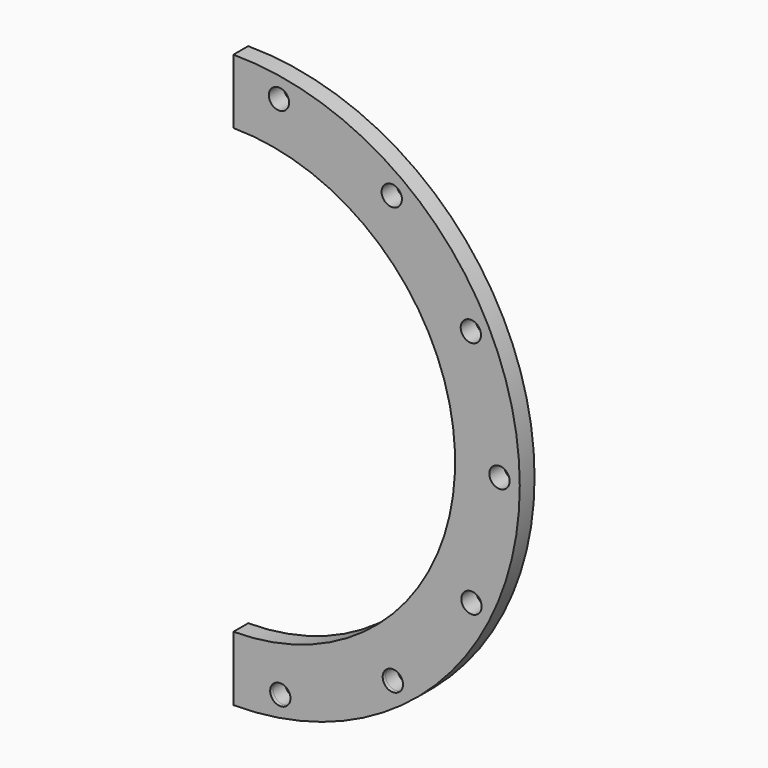
from build123d import *

# Parameters (mm, degrees)
F0_R      = 17.4625
F1_DEPTH  = 25.4
F1_FACE_R = 17.4625
F2_DEPTH  = 6.35


with BuildPart() as f1:
    # F0 (on Front) → F1 (new body)
    with BuildSketch(Plane.XZ):
        with BuildLine():
            ThreePointArc((0, -492.125), (492.125, 0), (0, 492.125))
            Line((0, 492.125), (0, 381))
            ThreePointArc((0, 381), (381, 0), (0, -381))
            Line((0, -381), (0, -492.125))
        make_face()
        with Locations((80.526325, -450.052609)):
            Circle(F0_R, mode=Mode.SUBTRACT)
        with Locations((273.944195, -366.041552)):
            Circle(F0_R, mode=Mode.SUBTRACT)
        with Locations((409.084623, -204.160749)):
            Circle(F0_R, mode=Mode.SUBTRACT)
        with Locations((78.257064, 450.452741)):
            Circle(F0_R, mode=Mode.SUBTRACT)
        with Locations((457.198548, 1.152134)):
            Circle(F0_R, mode=Mode.SUBTRACT)
        with Locations((408.050469, 206.219918)):
            Circle(F0_R, mode=Mode.SUBTRACT)
        with Locations((272.095888, 367.417566)):
            Circle(F0_R, mode=Mode.SUBTRACT)
    extrude(amount=F1_DEPTH)

    # F1_face (on face) → F2 (join)
    with BuildSketch(Plane(origin=(279.272533, -25.4, -0.032793), x_dir=(1, 0, 0), z_dir=(0, -1, 0))):
        with BuildLine():
            Line((-279.272533, -380.967207), (-279.272533, -492.092207))
            ThreePointArc((-279.272533, -492.092207), (212.852467, 0.032793), (-279.272533, 492.157793))
            Line((-279.272533, 492.157793), (-279.272533, 381.032793))
            ThreePointArc((-279.272533, 381.032793), (101.727467, 0.032793), (-279.272533, -380.967207))
        make_face()
        with Locations((-198.746207, -450.019816)):
            Circle(F1_FACE_R, mode=Mode.SUBTRACT)
        with Locations((-5.328338, -366.00876)):
            Circle(F1_FACE_R, mode=Mode.SUBTRACT)
        with Locations((129.81209, -204.127956)):
            Circle(F1_FACE_R, mode=Mode.SUBTRACT)
        with Locations((-201.015469, 450.485534)):
            Circle(F1_FACE_R, mode=Mode.SUBTRACT)
        with Locations((177.926015, 1.184927)):
            Circle(F1_FACE_R, mode=Mode.SUBTRACT)
        with Locations((128.777936, 206.252711)):
            Circle(F1_FACE_R, mode=Mode.SUBTRACT)
        with Locations((-7.176645, 367.450359)):
            Circle(F1_FACE_R, mode=Mode.SUBTRACT)
    extrude(amount=F2_DEPTH)


solid = f1.part
